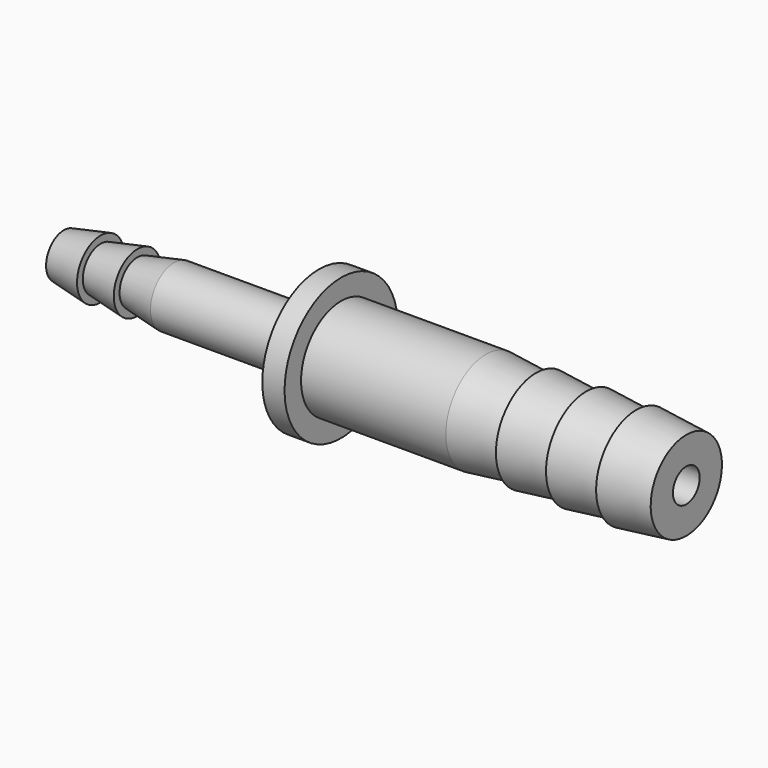
from build123d import *

# Parameters (mm, degrees)
F2_R     = 1.5
F3_DEPTH = 55.901


with BuildPart() as f1:
    # F0 (on Front) → F1 (revolve)
    with BuildSketch(Plane.XZ):
        Polygon((-17.3, 0), (-17.3, 2), (-17.3, 2.65), (-20.6, 2), (-20.6, 0), align=None)
        Polygon((18.5, 4), (14, 4.5), (1, 4.5), (1, 6.35), (-1, 6.35), (-1, 2.65), (-14, 2.65), (-17.3, 2), (-17.3, 0), (32, 0), (32, 4), (27.5, 4.5), (27.5, 4), (23, 4.5), (23, 4), (18.5, 4.5), align=None)
        Polygon((-23.9, 0), (-20.6, 0), (-20.6, 2), (-20.6, 2.65), (-23.9, 2), align=None)
        Polygon((18.5, 4), (14, 4.5), (1, 4.5), (1, 6.35), (-1, 6.35), (-1, 2.65), (-14, 2.65), (-17.3, 2), (-17.3, 0), (32, 0), (32, 4), (27.5, 4.5), (27.5, 4), (23, 4.5), (23, 4), (18.5, 4.5), align=None)
    revolve(axis=Axis((4.05, 0, 0), (1, 0, 0)))

    # F2 (on face) → F3 (cut, through all)
    with BuildSketch(Plane.YZ.offset(32)):
        Circle(F2_R)
    extrude(amount=-F3_DEPTH, mode=Mode.SUBTRACT)


solid = f1.part
